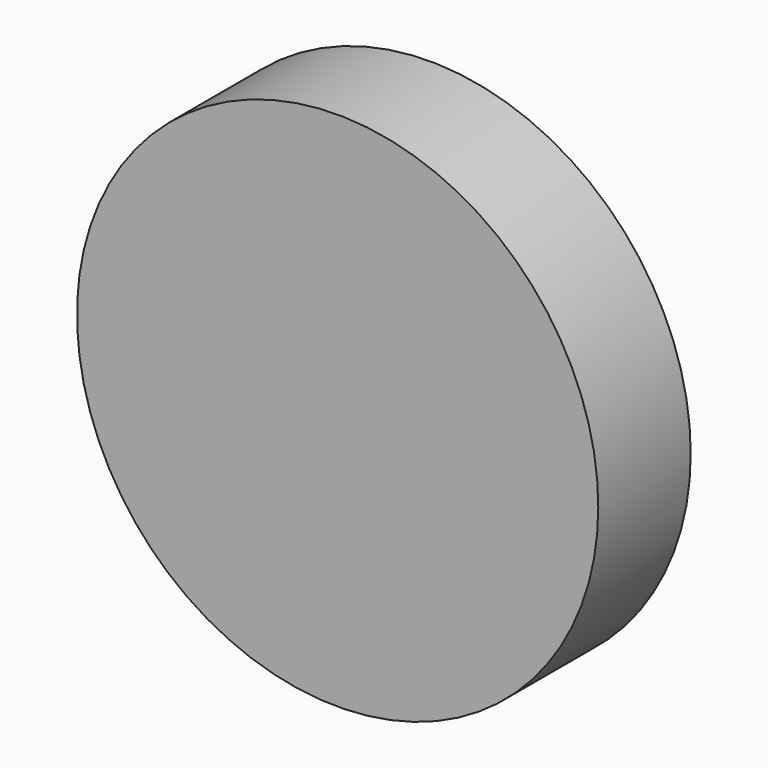
from build123d import *

# Parameters (mm, degrees)
F0_R     = 57.286446
F1_DEPTH = 25.4
F3_DEPTH = 25.4


with BuildPart() as f1:
    # F0 (on Front) → F1 (new body)
    with BuildSketch(Plane.XZ):
        Circle(F0_R)
    extrude(amount=F1_DEPTH)

    # F2 (on face) → F3 (join)
    with BuildSketch(Plane(origin=(0, 0, 0), x_dir=(-1, 0, 0), z_dir=(0, 1, 0))):
        Polygon((0.091393, 28.559967), (-20.130322, 20.259571), (-28.559967, 0.091393), (-20.259571, -20.130322), (-0.091393, -28.559967), (20.130322, -20.259571), (28.559967, -0.091393), (20.259571, 20.130322), align=None)
    extrude(amount=F3_DEPTH)


solid = f1.part
